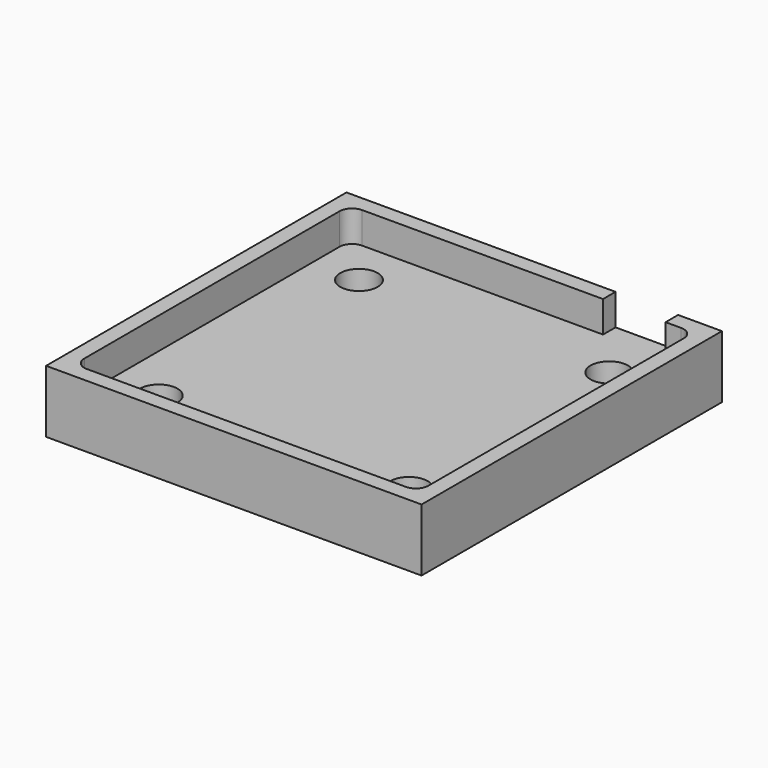
from build123d import *

# Parameters (mm, degrees)
SKETCH_W        = 60
SKETCH_H        = 60
PAD_DEPTH       = 10
SKETCH001_W     = 55
SKETCH001_H     = 55
POCKET_DEPTH    = 5
FILLET_R        = 2
FILLET001_R     = 2
FILLET002_R     = 2
FILLET003_R     = 2
SKETCH002_R     = 3
HOLE_DEPTH      = 25
SKETCH003_W     = 10
SKETCH003_H     = 3
POCKET001_DEPTH = 5


with BuildPart() as part:
    # Sketch → Pad (new body)
    with BuildSketch(Plane.XY):
        Rectangle(SKETCH_W, SKETCH_H)
    extrude(amount=PAD_DEPTH)

    # Sketch001 (on Face6 of Pad) → Pocket (cut)
    with BuildSketch(Plane.XY.offset(10)):
        Rectangle(SKETCH001_W, SKETCH001_H)
    extrude(amount=-POCKET_DEPTH, mode=Mode.SUBTRACT)

    # Fillet
    fillet_edges = [part.edges().sort_by_distance(p)[0] for p in [
        (-27.5, 27.5, 7.5),
    ]]
    fillet(fillet_edges, radius=FILLET_R)

    # Fillet001
    fillet001_edges = [part.edges().sort_by_distance(p)[0] for p in [
        (27.5, 27.5, 7.5),
    ]]
    fillet(fillet001_edges, radius=FILLET001_R)

    # Fillet002
    fillet002_edges = [part.edges().sort_by_distance(p)[0] for p in [
        (-27.5, -27.5, 7.5),
    ]]
    fillet(fillet002_edges, radius=FILLET002_R)

    # Fillet003
    fillet003_edges = [part.edges().sort_by_distance(p)[0] for p in [
        (27.5, -27.5, 7.5),
    ]]
    fillet(fillet003_edges, radius=FILLET003_R)

    # Sketch002 (on Face14 of Fillet003) → Hole (cut)
    with BuildSketch(Plane.XY.offset(5)):
        with Locations((-20, 20)):
            Circle(SKETCH002_R)
        with Locations((-20, -20)):
            Circle(SKETCH002_R)
        with Locations((20, -20)):
            Circle(SKETCH002_R)
        with Locations((20, 20)):
            Circle(SKETCH002_R)
    extrude(amount=-HOLE_DEPTH, mode=Mode.SUBTRACT)

    # Sketch003 (on Face1 of Hole) → Pocket001 (cut)
    with BuildSketch(Plane.XY.offset(10)):
        with Locations((18, 28.5)):
            Rectangle(SKETCH003_W, SKETCH003_H)
    extrude(amount=-POCKET001_DEPTH, mode=Mode.SUBTRACT)


solid = part.part
